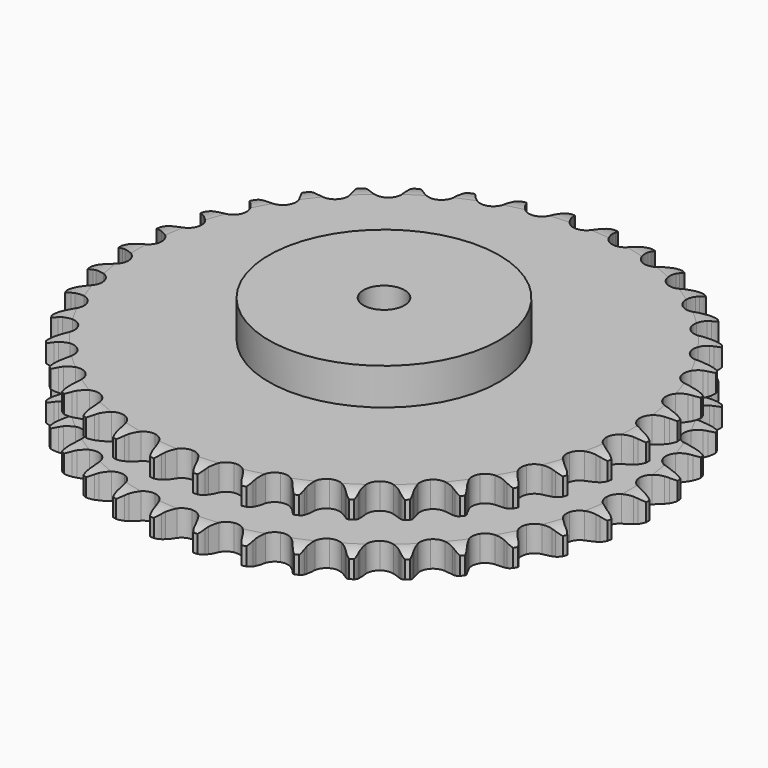
from build123d import *

# Parameters (mm, degrees)
PAD_DEPTH         = 47.7
SKETCH001_R       = 70
PAD001_DEPTH      = 70
SKETCH002_R       = 12.5
POCKET_DEPTH      = 0.0010001
POCKET_DEPTH_BACK = 70.001


with BuildPart() as part:
    # Sprocket → Pad (new body)
    with BuildSketch(Plane.XY):
        with BuildLine():
            ThreePointArc((-13.3743800362, 161.4047637629), (-11.4083954717, 159.0894894173), (-10.0382676821, 156.3787071604))
            Line((-10.0382676821, 156.3787071604), (-9.2638283543, 154.2570187456))
            ThreePointArc((-9.2638283543, 154.2570187456), (-8.040592009, 151.5331871163), (-6.4385860217, 149.0134365895))
            ThreePointArc((-6.4385860217, 149.0134365895), (-3.6038657612, 146.629271795), (0, 145.7736829351))
            ThreePointArc((0, 145.7736829351), (3.6038657612, 146.629271795), (6.4385860217, 149.0134365895))
            ThreePointArc((6.4385860217, 149.0134365895), (8.040592009, 151.5331871163), (9.2638283543, 154.2570187456))
            Line((9.2638283543, 154.2570187456), (10.0382676821, 156.3787071604))
            ThreePointArc((10.0382676821, 156.3787071604), (11.4083954717, 159.0894894173), (13.3743800362, 161.4047637629))
            ThreePointArc((13.3743800362, 161.4047637629), (14.9324695014, 158.7974763177), (15.8377304389, 155.8981499754))
            Line((15.8377304389, 155.8981499754), (16.2523889883, 153.6779301013))
            ThreePointArc((16.2523889883, 153.6779301013), (17.0106140332, 150.7899099002), (18.1760334413, 148.0408439672))
            ThreePointArc((18.1760334413, 148.0408439672), (20.5796711847, 145.2226164531), (23.9935596164, 143.7855199017))
            ThreePointArc((23.9935596164, 143.7855199017), (27.6890986438, 144.0362628363), (30.8775776422, 145.9213311107))
            Line((30.8775776422, 145.9213311107), (34.5273526084, 150.6283780365))
            ThreePointArc((34.5273526084, 150.6283780365), (35.0571042163, 151.626196206), (35.6404480285, 152.5936608629))
            ThreePointArc((35.6404480285, 152.5936608629), (37.4380691558, 155.0419559609), (39.7583218856, 157.0020625583))
            ThreePointArc((39.7583218856, 157.0020625583), (40.8660156326, 154.1738820183), (41.2817165593, 151.1650976553))
            Line((41.2817165593, 151.1650976553), (41.3252835261, 148.9069081323))
            ThreePointArc((41.3252835261, 148.9069081323), (41.597814868, 145.9334770219), (42.2948580935, 143.0300830351))
            ThreePointArc((42.2948580935, 143.0300830351), (44.201848348, 139.8546667015), (47.332637473, 137.8752627062))
            ThreePointArc((47.332637473, 137.8752627062), (51.0190450955, 137.514320102), (54.4743094365, 138.8488721077))
            Line((54.4743094365, 138.8488721077), (58.8490606894, 142.8909878334))
            ThreePointArc((58.8490606894, 142.8909878334), (59.5358226487, 143.7880028148), (60.2704498605, 144.6462572791))
            ThreePointArc((60.2704498605, 144.6462572791), (62.4465299071, 146.7652821101), (65.0577603562, 148.3167543609))
            ThreePointArc((65.0577603562, 148.3167543609), (65.684843387, 145.3448261188), (65.5996450655, 142.3086555291))
            Line((65.5996450655, 142.3086555291), (65.2709320563, 140.0740938809))
            ThreePointArc((65.2709320563, 140.0740938809), (65.0503357505, 137.0963593106), (65.2599892713, 134.1178342894))
            ThreePointArc((65.2599892713, 134.1178342894), (66.6183143139, 130.6718462162), (69.3806043664, 128.2041277581))
            ThreePointArc((69.3806043664, 128.2041277581), (72.9573249937, 127.2413451883), (76.5851240733, 127.9889778256))
            Line((76.5851240733, 127.9889778256), (81.5655198029, 131.2559039713))
            ThreePointArc((81.5655198029, 131.2559039713), (82.3905590375, 132.0276475342), (83.2564309335, 132.7532808613))
            ThreePointArc((83.2564309335, 132.7532808613), (85.7516121085, 134.4852339518), (88.5825927172, 135.5857517375))
            ThreePointArc((88.5825927172, 135.5857517375), (88.7119598415, 132.5511422484), (88.1281862598, 129.5704042511))
            Line((88.1281862598, 129.5704042511), (87.4361597086, 127.4204234942))
            ThreePointArc((87.4361597086, 127.4204234942), (86.7284530474, 124.5196103009), (86.4449980619, 121.5472006434))
            ThreePointArc((86.4449980619, 121.5472006434), (87.2176063263, 117.9246384021), (89.5360492343, 115.035918408))
            ThreePointArc((89.5360492343, 115.035918408), (92.9055192516, 113.4975580714), (96.6068961678, 113.6378778708))
            Line((96.6068961678, 113.6378778708), (102.0570841616, 116.0405012074))
            ThreePointArc((102.0570841616, 116.0405012074), (102.997895752, 116.6659221993), (103.971393604, 117.2391410036))
            ThreePointArc((103.971393604, 117.2391410036), (106.7176138693, 118.5367791883), (109.6911228665, 119.1563232523))
            ThreePointArc((109.6911228665, 119.1563232523), (109.3192452863, 116.1418087526), (108.2528202659, 113.2978101099))
            Line((108.2528202659, 113.2978101099), (107.2163568532, 111.2910561149))
            ThreePointArc((107.2163568532, 111.2910561149), (106.0408442293, 108.5462909206), (105.2720126506, 105.6610762138))
            ThreePointArc((105.2720126506, 105.6610762138), (105.4378293975, 101.9607538591), (107.2491840822, 98.72982908))
            ThreePointArc((107.2491840822, 98.72982908), (110.3194931309, 96.6578534363), (113.9934839703, 96.1870328396))
            Line((113.9934839703, 96.1870328396), (119.7647973073, 97.6598160656))
            ThreePointArc((119.7647973073, 97.6598160656), (120.7957183658, 98.1218546321), (121.8502876902, 98.5270229989))
            ThreePointArc((121.8502876902, 98.5270229989), (124.7726373158, 99.3549500907), (127.8075651274, 99.4766208862))
            ThreePointArc((127.8075651274, 99.4766208862), (126.9445866937, 96.564429473), (125.4245995293, 93.9347470543))
            Line((125.4245995293, 93.9347470543), (124.0719712749, 92.1259588389))
            ThreePointArc((124.0719712749, 92.1259588389), (122.4607176085, 89.612111683), (121.2274811579, 86.8927930629))
            ThreePointArc((121.2274811579, 86.8927930629), (120.7819833386, 83.2156457426), (122.0368407661, 79.7306473841))
            ThreePointArc((122.0368407661, 79.7306473841), (124.7242388191, 77.1815745277), (128.2706266889, 76.1124562933))
            Line((128.2706266889, 76.1124562933), (134.205638986, 76.6152257217))
            ThreePointArc((134.205638986, 76.6152257217), (135.2985486735, 76.9012786551), (136.4054235682, 77.1273446477))
            ThreePointArc((136.4054235682, 77.1273446477), (139.4241884744, 77.4629769538), (142.437750181, 77.0834556185))
            ThreePointArc((142.437750181, 77.0834556185), (141.1072106959, 74.3530242822), (139.175122675, 72.0093889686))
            Line((139.175122675, 72.0093889686), (137.5432257518, 70.4479055603))
            ThreePointArc((137.5432257518, 70.4479055603), (135.5401818427, 68.2335476401), (133.8761799957, 65.7543010299))
            ThreePointArc((133.8761799957, 65.7543010299), (132.8315196294, 62.2006317373), (133.4956505602, 58.5566214698))
            ThreePointArc((133.4956505602, 58.5566214698), (135.7268324041, 55.5999834633), (139.048881088, 53.9617303497))
            Line((139.048881088, 53.9617303497), (144.9857006812, 53.4807717411))
            ThreePointArc((144.9857006812, 53.4807717411), (146.1107872704, 53.5830362631), (147.2397750737, 53.6238333904))
            ThreePointArc((147.2397750737, 53.6238333904), (150.2726112231, 53.4580157364), (153.1826047173, 52.5876546231))
            ThreePointArc((153.1826047173, 52.5876546231), (151.4207978294, 50.1134624128), (149.1293112766, 48.1198024663))
            Line((149.1293112766, 48.1198024663), (147.2626595786, 46.8482170619))
            ThreePointArc((147.2626595786, 46.8482170619), (144.922463243, 44.9937502891), (142.8730856323, 42.8222030734))
            ThreePointArc((142.8730856323, 42.8222030734), (141.2577583306, 39.4889466431), (141.3130470042, 35.7853235676))
            ThreePointArc((141.3130470042, 35.7853235676), (143.0271518146, 32.5017697883), (146.0342444844, 30.33906907))
            Line((146.0342444844, 30.33906907), (151.8109304113, 28.8875017214))
            ThreePointArc((151.8109304113, 28.8875017214), (152.9375044729, 28.8031883224), (154.0578093405, 28.6576037451))
            ThreePointArc((154.0578093405, 28.6576037451), (157.0219888691, 27.9948592044), (159.749037114, 26.6573994953))
            ThreePointArc((159.749037114, 26.6573994953), (157.6040203226, 24.5069359248), (155.0156410176, 22.9176331918))
            Line((155.0156410176, 22.9176331918), (152.9651519372, 21.9706313263))
            ThreePointArc((152.9651519372, 21.9706313263), (150.3516376307, 20.5266407202), (147.9727859353, 18.7220270463))
            ThreePointArc((147.9727859353, 18.7220270463), (145.8308536161, 15.7001060245), (145.2757919016, 12.0378953239))
            ThreePointArc((145.2757919016, 12.0378953239), (146.4260633675, 8.5169925594), (149.0361743742, 5.888837074))
            Line((149.0361743742, 5.888837074), (154.4951537013, 3.5062559587))
            ThreePointArc((154.4951537013, 3.5062559587), (155.5924852318, 3.2376644886), (156.6735481674, 2.9096693745))
            ThreePointArc((156.6735481674, 2.9096693745), (159.4882159845, 1.7680758905), (161.957932213, 0))
            ThreePointArc((161.957932213, 0), (159.4882159845, -1.7680758905), (156.6735481674, -2.9096693745))
            Line((156.6735481674, -2.9096693745), (154.4951537013, -3.5062559587))
            ThreePointArc((154.4951537013, -3.5062559587), (151.6796112813, -4.5003820986), (149.0361743742, -5.888837074))
            ThreePointArc((149.0361743742, -5.888837074), (146.4260633675, -8.5169925594), (145.2757919016, -12.0378953239))
            ThreePointArc((145.2757919016, -12.0378953239), (145.8308536161, -15.7001060245), (147.9727859353, -18.7220270463))
            Line((147.9727859353, -18.7220270463), (152.9651519372, -21.9706313263))
            ThreePointArc((152.9651519372, -21.9706313263), (154.0033085928, -22.4161743926), (155.0156410176, -22.9176331918))
            ThreePointArc((155.0156410176, -22.9176331918), (157.6040203226, -24.5069359248), (159.749037114, -26.6573994953))
            ThreePointArc((159.749037114, -26.6573994953), (157.0219888691, -27.9948592044), (154.0578093405, -28.6576037451))
            Line((154.0578093405, -28.6576037451), (151.8109304113, -28.8875017214))
            ThreePointArc((151.8109304113, -28.8875017214), (148.8701605354, -29.4046462254), (146.0342444844, -30.33906907))
            ThreePointArc((146.0342444844, -30.33906907), (143.0271518146, -32.5017697883), (141.3130470042, -35.7853235676))
            ThreePointArc((141.3130470042, -35.7853235676), (141.2577583306, -39.4889466431), (142.8730856323, -42.8222030734))
            Line((142.8730856323, -42.8222030734), (147.2626595786, -46.8482170619))
            ThreePointArc((147.2626595786, -46.8482170619), (148.2133231522, -47.4585584709), (149.1293112766, -48.1198024663))
            ThreePointArc((149.1293112766, -48.1198024663), (151.4207978294, -50.1134624128), (153.1826047173, -52.5876546231))
            ThreePointArc((153.1826047173, -52.5876546231), (150.2726112231, -53.4580157364), (147.2397750737, -53.6238333904))
            Line((147.2397750737, -53.6238333904), (144.9857006812, -53.4807717411))
            ThreePointArc((144.9857006812, -53.4807717411), (141.9999198857, -53.5068282554), (139.048881088, -53.9617303497))
            ThreePointArc((139.048881088, -53.9617303497), (135.7268324041, -55.5999834633), (133.4956505602, -58.5566214698))
            ThreePointArc((133.4956505602, -58.5566214698), (132.8315196294, -62.2006317373), (133.8761799957, -65.7543010299))
            Line((133.8761799957, -65.7543010299), (137.5432257518, -70.4479055603))
            ThreePointArc((137.5432257518, -70.4479055603), (138.3804646192, -71.2063967893), (139.175122675, -72.0093889686))
            ThreePointArc((139.175122675, -72.0093889686), (141.1072106959, -74.3530242822), (142.437750181, -77.0834556185))
            ThreePointArc((142.437750181, -77.0834556185), (139.4241884744, -77.4629769538), (136.4054235682, -77.1273446477))
            Line((136.4054235682, -77.1273446477), (134.205638986, -76.6152257217))
            ThreePointArc((134.205638986, -76.6152257217), (131.2562915876, -76.1494834924), (128.2706266889, -76.1124562933))
            ThreePointArc((128.2706266889, -76.1124562933), (124.7242388191, -77.1815745277), (122.0368407661, -79.7306473841))
            ThreePointArc((122.0368407661, -79.7306473841), (120.7819833386, -83.2156457426), (121.2274811579, -86.8927930629))
            Line((121.2274811579, -86.8927930629), (124.0719712749, -92.1259588389))
            ThreePointArc((124.0719712749, -92.1259588389), (124.7729477423, -93.0119102246), (125.4245995293, -93.9347470543))
            ThreePointArc((125.4245995293, -93.9347470543), (126.9445866937, -96.564429473), (127.8075651274, -99.4766208862))
            ThreePointArc((127.8075651274, -99.4766208862), (124.7726373158, -99.3549500907), (121.8502876902, -98.5270229989))
            Line((121.8502876902, -98.5270229989), (119.7647973073, -97.6598160656))
            ThreePointArc((119.7647973073, -97.6598160656), (116.9323338146, -96.7149793266), (113.9934839703, -96.1870328396))
            ThreePointArc((113.9934839703, -96.1870328396), (110.3194931309, -96.6578534363), (107.2491840822, -98.72982908))
            ThreePointArc((107.2491840822, -98.72982908), (105.4378293975, -101.9607538591), (105.2720126506, -105.6610762138))
            Line((105.2720126506, -105.6610762138), (107.2163568532, -111.2910561149))
            ThreePointArc((107.2163568532, -111.2910561149), (107.7619501099, -112.2803012129), (108.2528202659, -113.2978101099))
            ThreePointArc((108.2528202659, -113.2978101099), (109.3192452863, -116.1418087526), (109.6911228665, -119.1563232523))
            ThreePointArc((109.6911228665, -119.1563232523), (106.7176138693, -118.5367791883), (103.971393604, -117.2391410036))
            Line((103.971393604, -117.2391410036), (102.0570841616, -116.0405012074))
            ThreePointArc((102.0570841616, -116.0405012074), (99.4187667951, -114.642342642), (96.6068961678, -113.6378778708))
            ThreePointArc((96.6068961678, -113.6378778708), (92.9055192516, -113.4975580714), (89.5360492343, -115.035918408))
            ThreePointArc((89.5360492343, -115.035918408), (87.2176063263, -117.9246384021), (86.4449980619, -121.5472006434))
            Line((86.4449980619, -121.5472006434), (87.4361597086, -127.4204234942))
            ThreePointArc((87.4361597086, -127.4204234942), (87.8114873929, -128.485978277), (88.1281862598, -129.5704042511))
            ThreePointArc((88.1281862598, -129.5704042511), (88.7119598415, -132.5511422484), (88.5825927172, -135.5857517375))
            ThreePointArc((88.5825927172, -135.5857517375), (85.7516121085, -134.4852339518), (83.2564309335, -132.7532808613))
            Line((83.2564309335, -132.7532808613), (81.5655198029, -131.2559039713))
            ThreePointArc((81.5655198029, -131.2559039713), (79.1933149827, -129.4425617003), (76.5851240733, -127.9889778256))
            ThreePointArc((76.5851240733, -127.9889778256), (72.9573249937, -127.2413451883), (69.3806043664, -128.2041277581))
            ThreePointArc((69.3806043664, -128.2041277581), (66.6183143139, -130.6718462162), (65.2599892713, -134.1178342894))
            Line((65.2599892713, -134.1178342894), (65.2709320563, -140.0740938809))
            ThreePointArc((65.2709320563, -140.0740938809), (65.4657562073, -141.1868927916), (65.5996450655, -142.3086555291))
            ThreePointArc((65.5996450655, -142.3086555291), (65.684843387, -145.3448261188), (65.0577603562, -148.3167543609))
            ThreePointArc((65.0577603562, -148.3167543609), (62.4465299071, -146.7652821101), (60.2704498605, -144.6462572791))
            Line((60.2704498605, -144.6462572791), (58.8490606894, -142.8909878334))
            ThreePointArc((58.8490606894, -142.8909878334), (56.8076759792, -140.7119251071), (54.4743094365, -138.8488721077))
            ThreePointArc((54.4743094365, -138.8488721077), (51.0190450955, -137.514320102), (47.332637473, -137.8752627062))
            ThreePointArc((47.332637473, -137.8752627062), (44.201848348, -139.8546667015), (42.2948580935, -143.0300830351))
            Line((42.2948580935, -143.0300830351), (41.3252835261, -148.9069081323))
            ThreePointArc((41.3252835261, -148.9069081323), (41.3342898488, -150.0365969177), (41.2817165593, -151.1650976553))
            ThreePointArc((41.2817165593, -151.1650976553), (40.8660156326, -154.1738820183), (39.7583218856, -157.0020625583))
            ThreePointArc((39.7583218856, -157.0020625583), (37.4380691558, -155.0419559609), (35.6404480285, -152.5936608629))
            Line((35.6404480285, -152.5936608629), (34.5273526084, -150.6283780365))
            ThreePointArc((34.5273526084, -150.6283780365), (32.8724716615, -148.1430340055), (30.8775776422, -145.9213311107))
            ThreePointArc((30.8775776422, -145.9213311107), (27.6890986438, -144.0362628363), (23.9935596164, -143.7855199017))
            ThreePointArc((23.9935596164, -143.7855199017), (20.5796711847, -145.2226164531), (18.1760334413, -148.0408439672))
            Line((18.1760334413, -148.0408439672), (16.2523889883, -153.6779301013))
            ThreePointArc((16.2523889883, -153.6779301013), (16.0753318137, -154.793693796), (15.8377304389, -155.8981499754))
            ThreePointArc((15.8377304389, -155.8981499754), (14.9324695014, -158.7974763177), (13.3743800362, -161.4047637629))
            ThreePointArc((13.3743800362, -161.4047637629), (11.4083954717, -159.0894894173), (10.0382676821, -156.3787071604))
            Line((10.0382676821, -156.3787071604), (9.2638283543, -154.2570187456))
            ThreePointArc((9.2638283543, -154.2570187456), (8.040592009, -151.5331871163), (6.4385860217, -149.0134365895))
            ThreePointArc((6.4385860217, -149.0134365895), (3.6038657612, -146.629271795), (0, -145.7736829351))
            ThreePointArc((0, -145.7736829351), (-3.6038657612, -146.629271795), (-6.4385860217, -149.0134365895))
            Line((-6.4385860217, -149.0134365895), (-9.2638283543, -154.2570187456))
            ThreePointArc((-9.2638283543, -154.2570187456), (-9.622119368, -155.3284222247), (-10.0382676821, -156.3787071604))
            ThreePointArc((-10.0382676821, -156.3787071604), (-11.4083954717, -159.0894894173), (-13.3743800362, -161.4047637629))
            ThreePointArc((-13.3743800362, -161.4047637629), (-14.9324695014, -158.7974763177), (-15.8377304389, -155.8981499754))
            Line((-15.8377304389, -155.8981499754), (-16.2523889883, -153.6779301013))
            ThreePointArc((-16.2523889883, -153.6779301013), (-17.0106140332, -150.7899099002), (-18.1760334413, -148.0408439672))
            ThreePointArc((-18.1760334413, -148.0408439672), (-20.5796711847, -145.2226164531), (-23.9935596164, -143.7855199017))
            ThreePointArc((-23.9935596164, -143.7855199017), (-27.6890986438, -144.0362628363), (-30.8775776422, -145.9213311107))
            Line((-30.8775776422, -145.9213311107), (-34.5273526084, -150.6283780365))
            ThreePointArc((-34.5273526084, -150.6283780365), (-35.0571042163, -151.626196206), (-35.6404480285, -152.5936608629))
            ThreePointArc((-35.6404480285, -152.5936608629), (-37.4380691558, -155.0419559609), (-39.7583218856, -157.0020625583))
            ThreePointArc((-39.7583218856, -157.0020625583), (-40.8660156326, -154.1738820183), (-41.2817165593, -151.1650976553))
            Line((-41.2817165593, -151.1650976553), (-41.3252835261, -148.9069081323))
            ThreePointArc((-41.3252835261, -148.9069081323), (-41.597814868, -145.9334770219), (-42.2948580935, -143.0300830351))
            ThreePointArc((-42.2948580935, -143.0300830351), (-44.201848348, -139.8546667015), (-47.332637473, -137.8752627062))
            ThreePointArc((-47.332637473, -137.8752627062), (-51.0190450955, -137.514320102), (-54.4743094365, -138.8488721077))
            Line((-54.4743094365, -138.8488721077), (-58.8490606894, -142.8909878334))
            ThreePointArc((-58.8490606894, -142.8909878334), (-59.5358226487, -143.7880028148), (-60.2704498605, -144.6462572791))
            ThreePointArc((-60.2704498605, -144.6462572791), (-62.4465299071, -146.7652821101), (-65.0577603562, -148.3167543609))
            ThreePointArc((-65.0577603562, -148.3167543609), (-65.684843387, -145.3448261188), (-65.5996450655, -142.3086555291))
            Line((-65.5996450655, -142.3086555291), (-65.2709320563, -140.0740938809))
            ThreePointArc((-65.2709320563, -140.0740938809), (-65.0503357505, -137.0963593106), (-65.2599892713, -134.1178342894))
            ThreePointArc((-65.2599892713, -134.1178342894), (-66.6183143139, -130.6718462162), (-69.3806043664, -128.2041277581))
            ThreePointArc((-69.3806043664, -128.2041277581), (-72.9573249937, -127.2413451883), (-76.5851240733, -127.9889778256))
            Line((-76.5851240733, -127.9889778256), (-81.5655198029, -131.2559039713))
            ThreePointArc((-81.5655198029, -131.2559039713), (-82.3905590375, -132.0276475342), (-83.2564309335, -132.7532808613))
            ThreePointArc((-83.2564309335, -132.7532808613), (-85.7516121085, -134.4852339518), (-88.5825927172, -135.5857517375))
            ThreePointArc((-88.5825927172, -135.5857517375), (-88.7119598415, -132.5511422484), (-88.1281862598, -129.5704042511))
            Line((-88.1281862598, -129.5704042511), (-87.4361597086, -127.4204234942))
            ThreePointArc((-87.4361597086, -127.4204234942), (-86.7284530474, -124.5196103009), (-86.4449980619, -121.5472006434))
            ThreePointArc((-86.4449980619, -121.5472006434), (-87.2176063263, -117.9246384021), (-89.5360492343, -115.035918408))
            ThreePointArc((-89.5360492343, -115.035918408), (-92.9055192516, -113.4975580714), (-96.6068961678, -113.6378778708))
            Line((-96.6068961678, -113.6378778708), (-102.0570841616, -116.0405012074))
            ThreePointArc((-102.0570841616, -116.0405012074), (-102.997895752, -116.6659221993), (-103.971393604, -117.2391410036))
            ThreePointArc((-103.971393604, -117.2391410036), (-106.7176138693, -118.5367791883), (-109.6911228665, -119.1563232523))
            ThreePointArc((-109.6911228665, -119.1563232523), (-109.3192452863, -116.1418087526), (-108.2528202659, -113.2978101099))
            Line((-108.2528202659, -113.2978101099), (-107.2163568532, -111.2910561149))
            ThreePointArc((-107.2163568532, -111.2910561149), (-106.0408442293, -108.5462909206), (-105.2720126506, -105.6610762138))
            ThreePointArc((-105.2720126506, -105.6610762138), (-105.4378293975, -101.9607538591), (-107.2491840822, -98.72982908))
            ThreePointArc((-107.2491840822, -98.72982908), (-110.3194931309, -96.6578534363), (-113.9934839703, -96.1870328396))
            Line((-113.9934839703, -96.1870328396), (-119.7647973073, -97.6598160656))
            ThreePointArc((-119.7647973073, -97.6598160656), (-120.7957183658, -98.1218546321), (-121.8502876902, -98.5270229989))
            ThreePointArc((-121.8502876902, -98.5270229989), (-124.7726373158, -99.3549500907), (-127.8075651274, -99.4766208862))
            ThreePointArc((-127.8075651274, -99.4766208862), (-126.9445866937, -96.564429473), (-125.4245995293, -93.9347470543))
            Line((-125.4245995293, -93.9347470543), (-124.0719712749, -92.1259588389))
            ThreePointArc((-124.0719712749, -92.1259588389), (-122.4607176085, -89.612111683), (-121.2274811579, -86.8927930629))
            ThreePointArc((-121.2274811579, -86.8927930629), (-120.7819833386, -83.2156457426), (-122.0368407661, -79.7306473841))
            ThreePointArc((-122.0368407661, -79.7306473841), (-124.7242388191, -77.1815745277), (-128.2706266889, -76.1124562933))
            Line((-128.2706266889, -76.1124562933), (-134.205638986, -76.6152257217))
            ThreePointArc((-134.205638986, -76.6152257217), (-135.2985486735, -76.9012786551), (-136.4054235682, -77.1273446477))
            ThreePointArc((-136.4054235682, -77.1273446477), (-139.4241884744, -77.4629769538), (-142.437750181, -77.0834556185))
            ThreePointArc((-142.437750181, -77.0834556185), (-141.1072106959, -74.3530242822), (-139.175122675, -72.0093889686))
            Line((-139.175122675, -72.0093889686), (-137.5432257518, -70.4479055603))
            ThreePointArc((-137.5432257518, -70.4479055603), (-135.5401818427, -68.2335476401), (-133.8761799957, -65.7543010299))
            ThreePointArc((-133.8761799957, -65.7543010299), (-132.8315196294, -62.2006317373), (-133.4956505602, -58.5566214698))
            ThreePointArc((-133.4956505602, -58.5566214698), (-135.7268324041, -55.5999834633), (-139.048881088, -53.9617303497))
            Line((-139.048881088, -53.9617303497), (-144.9857006812, -53.4807717411))
            ThreePointArc((-144.9857006812, -53.4807717411), (-146.1107872704, -53.5830362631), (-147.2397750737, -53.6238333904))
            ThreePointArc((-147.2397750737, -53.6238333904), (-150.2726112231, -53.4580157364), (-153.1826047173, -52.5876546231))
            ThreePointArc((-153.1826047173, -52.5876546231), (-151.4207978294, -50.1134624128), (-149.1293112766, -48.1198024663))
            Line((-149.1293112766, -48.1198024663), (-147.2626595786, -46.8482170619))
            ThreePointArc((-147.2626595786, -46.8482170619), (-144.922463243, -44.9937502891), (-142.8730856323, -42.8222030734))
            ThreePointArc((-142.8730856323, -42.8222030734), (-141.2577583306, -39.4889466431), (-141.3130470042, -35.7853235676))
            ThreePointArc((-141.3130470042, -35.7853235676), (-143.0271518146, -32.5017697883), (-146.0342444844, -30.33906907))
            Line((-146.0342444844, -30.33906907), (-151.8109304113, -28.8875017214))
            ThreePointArc((-151.8109304113, -28.8875017214), (-152.9375044729, -28.8031883224), (-154.0578093405, -28.6576037451))
            ThreePointArc((-154.0578093405, -28.6576037451), (-157.0219888691, -27.9948592044), (-159.749037114, -26.6573994953))
            ThreePointArc((-159.749037114, -26.6573994953), (-157.6040203226, -24.5069359248), (-155.0156410176, -22.9176331918))
            Line((-155.0156410176, -22.9176331918), (-152.9651519372, -21.9706313263))
            ThreePointArc((-152.9651519372, -21.9706313263), (-150.3516376307, -20.5266407202), (-147.9727859353, -18.7220270463))
            ThreePointArc((-147.9727859353, -18.7220270463), (-145.8308536161, -15.7001060245), (-145.2757919016, -12.0378953239))
            ThreePointArc((-145.2757919016, -12.0378953239), (-146.4260633675, -8.5169925594), (-149.0361743742, -5.888837074))
            Line((-149.0361743742, -5.888837074), (-154.4951537013, -3.5062559587))
            ThreePointArc((-154.4951537013, -3.5062559587), (-155.5924852318, -3.2376644886), (-156.6735481674, -2.9096693745))
            ThreePointArc((-156.6735481674, -2.9096693745), (-159.4882159845, -1.7680758905), (-161.957932213, 0))
            ThreePointArc((-161.957932213, 0), (-159.4882159845, 1.7680758905), (-156.6735481674, 2.9096693745))
            Line((-156.6735481674, 2.9096693745), (-154.4951537013, 3.5062559587))
            ThreePointArc((-154.4951537013, 3.5062559587), (-151.6796112813, 4.5003820986), (-149.0361743742, 5.888837074))
            ThreePointArc((-149.0361743742, 5.888837074), (-146.4260633675, 8.5169925594), (-145.2757919016, 12.0378953239))
            ThreePointArc((-145.2757919016, 12.0378953239), (-145.8308536161, 15.7001060245), (-147.9727859353, 18.7220270463))
            Line((-147.9727859353, 18.7220270463), (-152.9651519372, 21.9706313263))
            ThreePointArc((-152.9651519372, 21.9706313263), (-154.0033085928, 22.4161743926), (-155.0156410176, 22.9176331918))
            ThreePointArc((-155.0156410176, 22.9176331918), (-157.6040203226, 24.5069359248), (-159.749037114, 26.6573994953))
            ThreePointArc((-159.749037114, 26.6573994953), (-157.0219888691, 27.9948592044), (-154.0578093405, 28.6576037451))
            Line((-154.0578093405, 28.6576037451), (-151.8109304113, 28.8875017214))
            ThreePointArc((-151.8109304113, 28.8875017214), (-148.8701605354, 29.4046462254), (-146.0342444844, 30.33906907))
            ThreePointArc((-146.0342444844, 30.33906907), (-143.0271518146, 32.5017697883), (-141.3130470042, 35.7853235676))
            ThreePointArc((-141.3130470042, 35.7853235676), (-141.2577583306, 39.4889466431), (-142.8730856323, 42.8222030734))
            Line((-142.8730856323, 42.8222030734), (-147.2626595786, 46.8482170619))
            ThreePointArc((-147.2626595786, 46.8482170619), (-148.2133231522, 47.4585584709), (-149.1293112766, 48.1198024663))
            ThreePointArc((-149.1293112766, 48.1198024663), (-151.4207978294, 50.1134624128), (-153.1826047173, 52.5876546231))
            ThreePointArc((-153.1826047173, 52.5876546231), (-150.2726112231, 53.4580157364), (-147.2397750737, 53.6238333904))
            Line((-147.2397750737, 53.6238333904), (-144.9857006812, 53.4807717411))
            ThreePointArc((-144.9857006812, 53.4807717411), (-141.9999198857, 53.5068282554), (-139.048881088, 53.9617303497))
            ThreePointArc((-139.048881088, 53.9617303497), (-135.7268324041, 55.5999834633), (-133.4956505602, 58.5566214698))
            ThreePointArc((-133.4956505602, 58.5566214698), (-132.8315196294, 62.2006317373), (-133.8761799957, 65.7543010299))
            Line((-133.8761799957, 65.7543010299), (-137.5432257518, 70.4479055603))
            ThreePointArc((-137.5432257518, 70.4479055603), (-138.3804646192, 71.2063967893), (-139.175122675, 72.0093889686))
            ThreePointArc((-139.175122675, 72.0093889686), (-141.1072106959, 74.3530242822), (-142.437750181, 77.0834556185))
            ThreePointArc((-142.437750181, 77.0834556185), (-139.4241884744, 77.4629769538), (-136.4054235682, 77.1273446477))
            Line((-136.4054235682, 77.1273446477), (-134.205638986, 76.6152257217))
            ThreePointArc((-134.205638986, 76.6152257217), (-131.2562915876, 76.1494834924), (-128.2706266889, 76.1124562933))
            ThreePointArc((-128.2706266889, 76.1124562933), (-124.7242388191, 77.1815745277), (-122.0368407661, 79.7306473841))
            ThreePointArc((-122.0368407661, 79.7306473841), (-120.7819833386, 83.2156457426), (-121.2274811579, 86.8927930629))
            Line((-121.2274811579, 86.8927930629), (-124.0719712749, 92.1259588389))
            ThreePointArc((-124.0719712749, 92.1259588389), (-124.7729477423, 93.0119102246), (-125.4245995293, 93.9347470543))
            ThreePointArc((-125.4245995293, 93.9347470543), (-126.9445866937, 96.564429473), (-127.8075651274, 99.4766208862))
            ThreePointArc((-127.8075651274, 99.4766208862), (-124.7726373158, 99.3549500907), (-121.8502876902, 98.5270229989))
            Line((-121.8502876902, 98.5270229989), (-119.7647973073, 97.6598160656))
            ThreePointArc((-119.7647973073, 97.6598160656), (-116.9323338146, 96.7149793266), (-113.9934839703, 96.1870328396))
            ThreePointArc((-113.9934839703, 96.1870328396), (-110.3194931309, 96.6578534363), (-107.2491840822, 98.72982908))
            ThreePointArc((-107.2491840822, 98.72982908), (-105.4378293975, 101.9607538591), (-105.2720126506, 105.6610762138))
            Line((-105.2720126506, 105.6610762138), (-107.2163568532, 111.2910561149))
            ThreePointArc((-107.2163568532, 111.2910561149), (-107.7619501099, 112.2803012129), (-108.2528202659, 113.2978101099))
            ThreePointArc((-108.2528202659, 113.2978101099), (-109.3192452863, 116.1418087526), (-109.6911228665, 119.1563232523))
            ThreePointArc((-109.6911228665, 119.1563232523), (-106.7176138693, 118.5367791883), (-103.971393604, 117.2391410036))
            Line((-103.971393604, 117.2391410036), (-102.0570841616, 116.0405012074))
            ThreePointArc((-102.0570841616, 116.0405012074), (-99.4187667951, 114.642342642), (-96.6068961678, 113.6378778708))
            ThreePointArc((-96.6068961678, 113.6378778708), (-92.9055192516, 113.4975580714), (-89.5360492343, 115.035918408))
            ThreePointArc((-89.5360492343, 115.035918408), (-87.2176063263, 117.9246384021), (-86.4449980619, 121.5472006434))
            Line((-86.4449980619, 121.5472006434), (-87.4361597086, 127.4204234942))
            ThreePointArc((-87.4361597086, 127.4204234942), (-87.8114873929, 128.485978277), (-88.1281862598, 129.5704042511))
            ThreePointArc((-88.1281862598, 129.5704042511), (-88.7119598415, 132.5511422484), (-88.5825927172, 135.5857517375))
            ThreePointArc((-88.5825927172, 135.5857517375), (-85.7516121085, 134.4852339518), (-83.2564309335, 132.7532808613))
            Line((-83.2564309335, 132.7532808613), (-81.5655198029, 131.2559039713))
            ThreePointArc((-81.5655198029, 131.2559039713), (-79.1933149827, 129.4425617003), (-76.5851240733, 127.9889778256))
            ThreePointArc((-76.5851240733, 127.9889778256), (-72.9573249937, 127.2413451883), (-69.3806043664, 128.2041277581))
            ThreePointArc((-69.3806043664, 128.2041277581), (-66.6183143139, 130.6718462162), (-65.2599892713, 134.1178342894))
            Line((-65.2599892713, 134.1178342894), (-65.2709320563, 140.0740938809))
            ThreePointArc((-65.2709320563, 140.0740938809), (-65.4657562073, 141.1868927916), (-65.5996450655, 142.3086555291))
            ThreePointArc((-65.5996450655, 142.3086555291), (-65.684843387, 145.3448261188), (-65.0577603562, 148.3167543609))
            ThreePointArc((-65.0577603562, 148.3167543609), (-62.4465299071, 146.7652821101), (-60.2704498605, 144.6462572791))
            Line((-60.2704498605, 144.6462572791), (-58.8490606894, 142.8909878334))
            ThreePointArc((-58.8490606894, 142.8909878334), (-56.8076759792, 140.7119251071), (-54.4743094365, 138.8488721077))
            ThreePointArc((-54.4743094365, 138.8488721077), (-51.0190450955, 137.514320102), (-47.332637473, 137.8752627062))
            ThreePointArc((-47.332637473, 137.8752627062), (-44.201848348, 139.8546667015), (-42.2948580935, 143.0300830351))
            Line((-42.2948580935, 143.0300830351), (-41.3252835261, 148.9069081323))
            ThreePointArc((-41.3252835261, 148.9069081323), (-41.3342898488, 150.0365969177), (-41.2817165593, 151.1650976553))
            ThreePointArc((-41.2817165593, 151.1650976553), (-40.8660156326, 154.1738820183), (-39.7583218856, 157.0020625583))
            ThreePointArc((-39.7583218856, 157.0020625583), (-37.4380691558, 155.0419559609), (-35.6404480285, 152.5936608629))
            Line((-35.6404480285, 152.5936608629), (-34.5273526084, 150.6283780365))
            ThreePointArc((-34.5273526084, 150.6283780365), (-32.8724716615, 148.1430340055), (-30.8775776422, 145.9213311107))
            ThreePointArc((-30.8775776422, 145.9213311107), (-27.6890986438, 144.0362628363), (-23.9935596164, 143.7855199017))
            ThreePointArc((-23.9935596164, 143.7855199017), (-20.5796711847, 145.2226164531), (-18.1760334413, 148.0408439672))
            Line((-18.1760334413, 148.0408439672), (-16.2523889883, 153.6779301013))
            ThreePointArc((-16.2523889883, 153.6779301013), (-16.0753318137, 154.793693796), (-15.8377304389, 155.8981499754))
            ThreePointArc((-15.8377304389, 155.8981499754), (-14.9324695014, 158.7974763177), (-13.3743800362, 161.4047637629))
        make_face()
    extrude(amount=PAD_DEPTH)

    # Sketch → Groove (revolve, cut)
    with BuildSketch(Plane.XZ):
        with BuildLine():
            ThreePointArc((149.2257022694, 0), (154.9265793949, 0.6326982121), (160.35, 2.5))
            Line((160.35, 2.5), (160.35, 13.3))
            ThreePointArc((160.35, 13.3), (154.9265793949, 15.1673017879), (149.2257022694, 15.8))
            Line((70, 15.8), (149.2257022694, 15.8))
            Line((70, 31.9), (70, 15.8))
            Line((149.2257022694, 31.9), (70, 31.9))
            ThreePointArc((149.2257022694, 31.9), (154.9265793949, 32.5326982121), (160.35, 34.4))
            Line((160.35, 34.4), (160.35, 45.2))
            ThreePointArc((160.35, 45.2), (154.9265793949, 47.0673017879), (149.2257022694, 47.7))
            Line((149.2257022694, 47.7), (170.35, 47.7))
            Line((170.35, 47.7), (170.35, 0))
            Line((149.2257022694, 0), (170.35, 0))
        make_face()
    revolve(axis=Axis((0, 0, 0), (0, 0, 1)), mode=Mode.SUBTRACT)

    # Sketch001 → Pad001 (join)
    with BuildSketch(Plane.XY):
        Circle(SKETCH001_R)
    extrude(amount=PAD001_DEPTH)

    # Sketch002 → Pocket (cut, two sides)
    with BuildSketch(Plane.XY) as pocket_sk:
        Circle(SKETCH002_R)
    extrude(amount=-POCKET_DEPTH, mode=Mode.SUBTRACT)
    extrude(pocket_sk.sketch, amount=POCKET_DEPTH_BACK, mode=Mode.SUBTRACT)


solid = part.part
